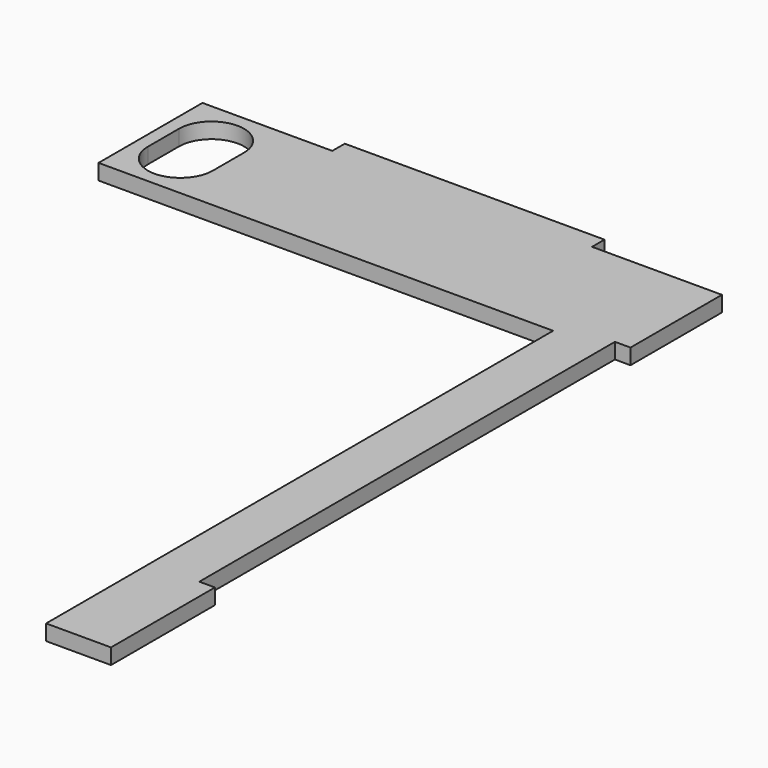
from build123d import *

# Parameters (mm, degrees)
F1_DEPTH = 6


with BuildPart() as f1:
    # F0 (on Top) → F1 (new body)
    with BuildSketch(Plane.XY):
        Polygon((0.451185, 218.876721), (-49.548815, 218.876721), (-49.548815, 168.876721), (125.451185, 168.876721), (125.451185, -75.123279), (150.451185, -75.123279), (150.451185, -25.123279), (144.451185, -25.123279), (144.451185, 174.876721), (150.451185, 174.876721), (150.451185, 218.876721), (100.451185, 218.876721), (100.451185, 224.876721), (0.451185, 224.876721), align=None)
        with BuildLine():
            Line((-44.548815, 186.376721), (-44.548815, 201.376721))
            ThreePointArc((-44.548815, 201.376721), (-32.048815, 213.876721), (-19.548815, 201.376721))
            Line((-19.548815, 201.376721), (-19.548815, 186.376721))
            ThreePointArc((-19.548815, 186.376721), (-32.048815, 173.876721), (-44.548815, 186.376721))
        make_face(mode=Mode.SUBTRACT)
    extrude(amount=F1_DEPTH)


solid = f1.part
